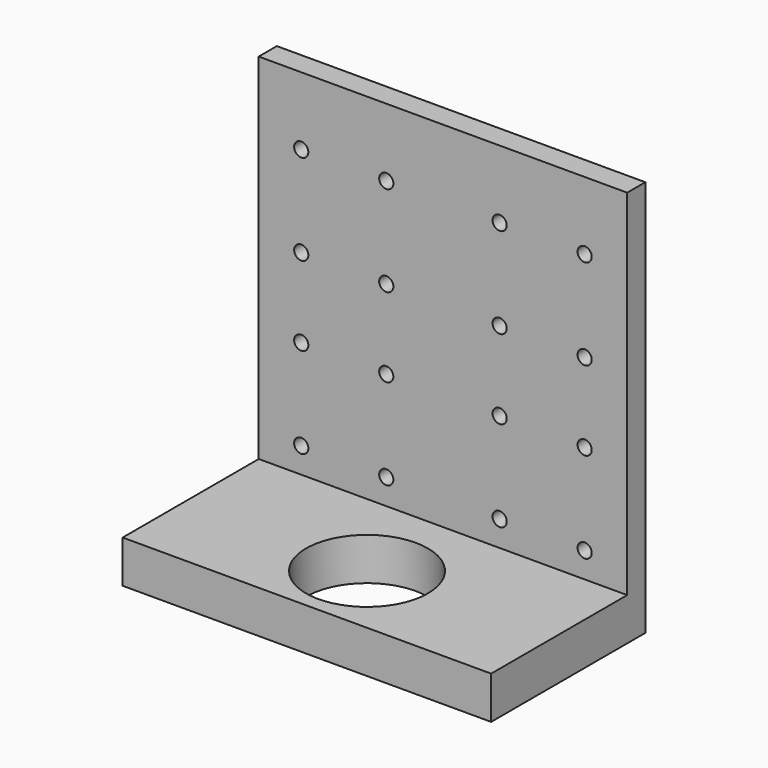
from build123d import *

# Parameters (mm, degrees)
F0_W     = 130
F0_H     = 140
F0_R     = 2.5
F1_DEPTH = 8
F2_W     = 130
F2_H     = 15
F3_DEPTH = 60
F4_R     = 21.5
F5_DEPTH = 25


with BuildPart() as f1:
    # F0 (on Front) → F1 (new body)
    with BuildSketch(Plane.XZ):
        Rectangle(F0_W, F0_H)
        with Locations((-50, -46)):
            Circle(F0_R, mode=Mode.SUBTRACT)
        with Locations((-20, -46)):
            Circle(F0_R, mode=Mode.SUBTRACT)
        with Locations((-50, -14)):
            Circle(F0_R, mode=Mode.SUBTRACT)
        with Locations((-20, -14)):
            Circle(F0_R, mode=Mode.SUBTRACT)
        with Locations((20, -46)):
            Circle(F0_R, mode=Mode.SUBTRACT)
        with Locations((50, -46)):
            Circle(F0_R, mode=Mode.SUBTRACT)
        with Locations((20, -14)):
            Circle(F0_R, mode=Mode.SUBTRACT)
        with Locations((50, -14)):
            Circle(F0_R, mode=Mode.SUBTRACT)
        with Locations((-50, 14)):
            Circle(F0_R, mode=Mode.SUBTRACT)
        with Locations((-20, 14)):
            Circle(F0_R, mode=Mode.SUBTRACT)
        with Locations((-50, 46)):
            Circle(F0_R, mode=Mode.SUBTRACT)
        with Locations((-20, 46)):
            Circle(F0_R, mode=Mode.SUBTRACT)
        with Locations((20, 14)):
            Circle(F0_R, mode=Mode.SUBTRACT)
        with Locations((50, 14)):
            Circle(F0_R, mode=Mode.SUBTRACT)
        with Locations((20, 46)):
            Circle(F0_R, mode=Mode.SUBTRACT)
        with Locations((50, 46)):
            Circle(F0_R, mode=Mode.SUBTRACT)
    extrude(amount=F1_DEPTH)

    # F2 (on face) → F3 (join)
    with BuildSketch(Plane.XZ.offset(8)):
        with Locations((0, -62.5)):
            Rectangle(F2_W, F2_H)
    extrude(amount=F3_DEPTH)

    # F4 (on face) → F5 (cut)
    with BuildSketch(Plane.XY.offset(-55)):
        with Locations((0, -41.5)):
            Circle(F4_R)
    extrude(amount=-F5_DEPTH, mode=Mode.SUBTRACT)


solid = f1.part
